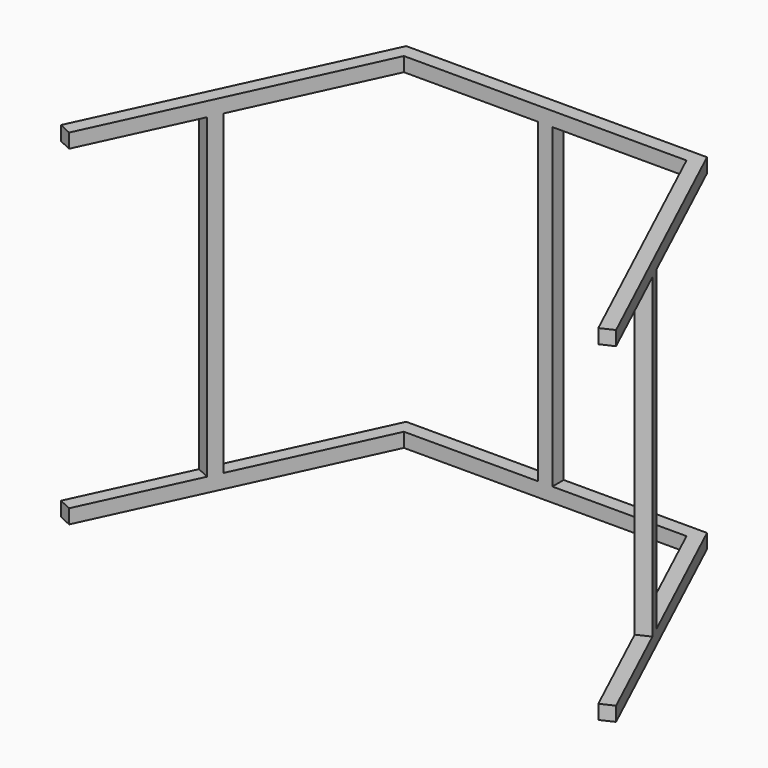
from build123d import *

# Parameters (mm, degrees)
F1_DEPTH = 30
F3_DEPTH = 333
F5_DEPTH = 333


with BuildPart() as f1:
    # F0 (on Top) → F1 (new body)
    with BuildSketch(Plane.XY):
        Polygon((-297.3889, 0), (0, 0), (297.3889, 0), (556.8289580754, -556.371), (584.0181916865, -543.6924521478), (316.5010078242, 30), (0, 30), (-316.5010078242, 30), (-584.0181916865, -543.6924521478), (-556.8289580754, -556.371), align=None)
    extrude(amount=F1_DEPTH)

    # F2 (on face) → F3 (join)
    with BuildSketch(Plane.XY.offset(30)):
        Polygon((-15, 0), (0, 0), (15, 0), (15, 30), (-15, 30), align=None)
    extrude(amount=F3_DEPTH)

    # F4 (on face) → F5 (join)
    with BuildSketch(Plane.XY.offset(30)):
        Polygon((-437.2281658224, -299.886273315), (-464.4173994335, -287.2077254628), (-477.0959472857, -314.3969590739), (-449.9067136746, -327.0755069261), align=None)
    extrude(amount=F5_DEPTH)

    # F6: F1 across plane


with BuildPart() as f1_1:
    add(f1.part)
    add(f1.part.mirror(Plane.YZ))

    # F7: F1 across face


with BuildPart() as f1_2:
    add(f1_1.part)
    add(f1_1.part.mirror(Plane(origin=(0, 15, 363), x_dir=(1, 0, 0), z_dir=(0, 0, 1))))


solid = f1_2.part
